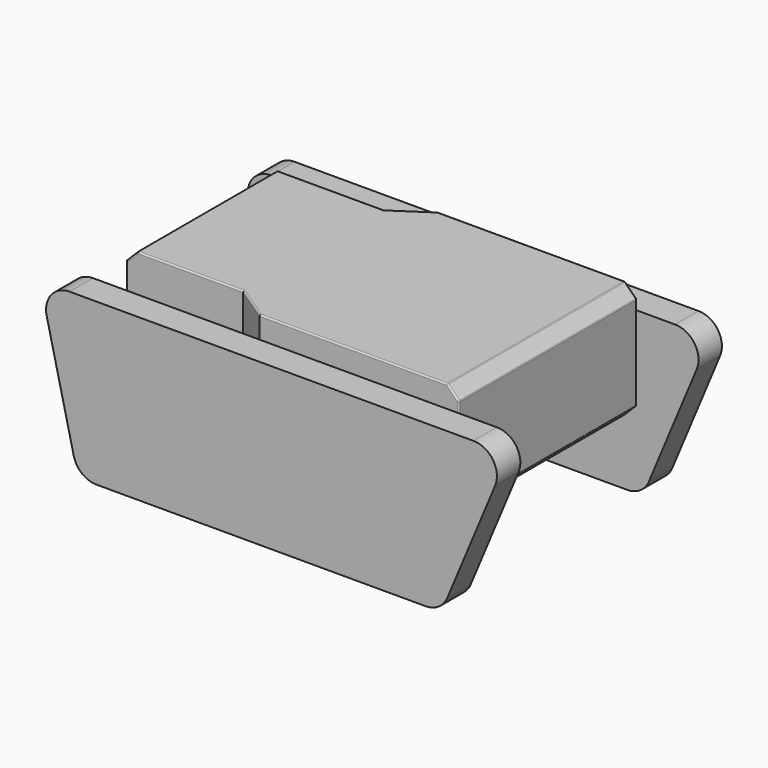
from build123d import *

# Parameters (mm, degrees)
EXTRUDE001_DEPTH                     = 100
EXTRUDE001_ONTO_SKETCH001_ROLL_ANGLE = 90
FILLET003_R                          = 80
FILLET003_PLACEMENT_ANGLE            = 90
EXTRUDE_DEPTH                        = 400
CHAMFER_SIZE                         = 40
FILLET_R                             = 5
FILLET001_R                          = 5
FILLET002_R                          = 5
FUSION001_PLACEMENT_ANGLE            = -90


with BuildPart() as pas001:
    # Sketch001 as drawn → Extrude001 (new)
    with BuildSketch(Plane.XY):
        Polygon((-750, 325), (-620, -225), (620, -225), (850, 325), align=None)
    extrude(amount=-EXTRUDE001_DEPTH)


with BuildPart() as pas001_1:
    # Extrude001 onto Sketch001 roll: moved
    add(pas001.part.rotate(Axis((0, 0, 0), (1, 0, 0)), EXTRUDE001_ONTO_SKETCH001_ROLL_ANGLE))


with BuildPart() as pas001_2:
    # Extrude001 onto Sketch001 placement: moved
    add(pas001_1.part)

    # Fillet003
    fillet003_edges = [pas001_2.edges().sort_by_distance(p)[0] for p in [
        (-750, 50, 325),
        (-620, 50, -225),
        (620, 50, -225),
        (850, 50, 325),
    ]]
    fillet(fillet003_edges, radius=FILLET003_R)


with BuildPart() as pas001_3:
    # Fillet003 placement: moved
    add(pas001_2.part.moved(Location((-380, 0, 0))).rotate(Axis((-380, 0, 0), (0, 0, 1)), FILLET003_PLACEMENT_ANGLE))


with BuildPart() as fusion:
    # Sketch → Extrude (new body)
    with BuildSketch(Plane.XY):
        Polygon((-380, 600), (-380, -80), (-300, -200), (-300, -600), (300, -600), (300, -200), (380, -80), (380, 600), align=None)
    extrude(amount=EXTRUDE_DEPTH)

    # Chamfer
    chamfer_edges = [fusion.edges().sort_by_distance(p)[0] for p in [
        (0, -600, 0),
        (0, -600, 400),
        (0, 600, 0),
        (0, 600, 400),
    ]]
    chamfer(chamfer_edges, length=CHAMFER_SIZE)

    # Fillet
    fillet_edges = [fusion.edges().sort_by_distance(p)[0] for p in [
        (-380, 600, 200),
        (-380, 240, 0),
        (-380, 240, 400),
        (-340, -140, 0),
        (-300, -380, 0),
        (-340, -140, 400),
        (-300, -380, 400),
        (-300, -600, 200),
        (-300, -580, 20),
        (-300, -580, 380),
    ]]
    fillet(fillet_edges, radius=FILLET_R)

    # Fillet001
    fillet001_edges = [fusion.edges().sort_by_distance(p)[0] for p in [
        (-380, 580, 20),
        (-380, 580, 380),
    ]]
    fillet(fillet001_edges, radius=FILLET001_R)

    # Fillet002
    fillet002_edges = [fusion.edges().sort_by_distance(p)[0] for p in [
        (380, 600, 200),
        (380, 580, 20),
        (380, 580, 380),
        (380, 238.964466, 0),
        (340, -140, 0),
        (300, -380, 0),
        (380, 238.964466, 400),
        (340, -140, 400),
        (300, -380, 400),
        (300, -580, 20),
        (300, -600, 200),
        (300, -580, 380),
    ]]
    fillet(fillet002_edges, radius=FILLET002_R)

    # Fusion: union Pas001
    add(pas001_3.part)


with BuildPart() as obj1:
    # Part__Mirroring: instance of Pas001
    add(pas001_3.part.mirror(Plane(origin=(0, 0, 0), x_dir=(0, -1, 0), z_dir=(1, 0, 0))))

    # Fusion001: union Fusion
    add(fusion.part)


with BuildPart() as obj1_1:
    # Fusion001 placement: moved
    add(obj1.part.rotate(Axis((0, 0, 0), (0, 0, 1)), FUSION001_PLACEMENT_ANGLE))


solid = obj1_1.part
